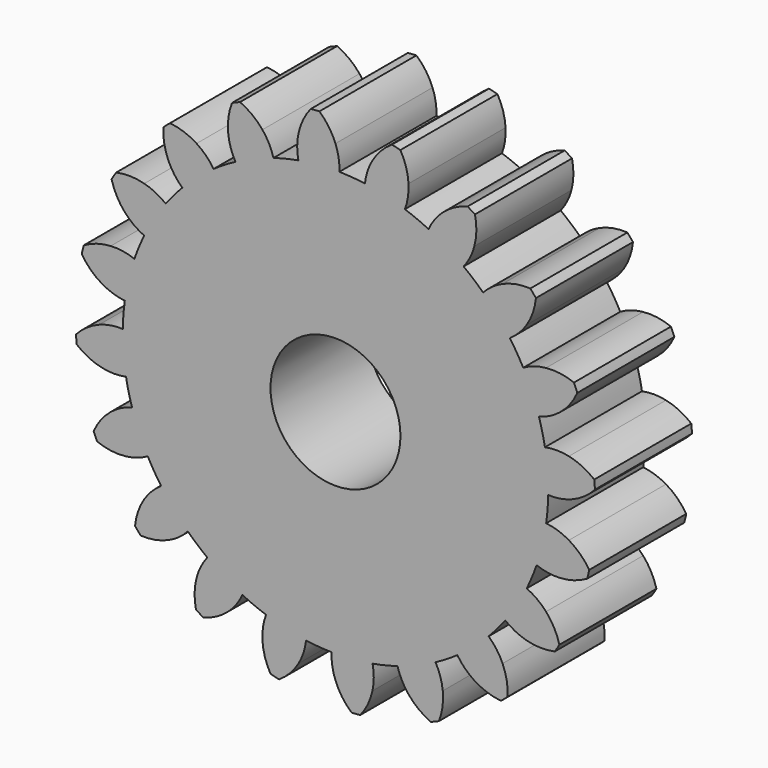
from build123d import *

# Parameters (mm, degrees)
F1_DEPTH = 2.8
F2_COUNT = 20
F2_ANGLE = 342
F3_R     = 1.5
F4_DEPTH = 2.8


with BuildPart() as f1:
    # F0 (on Front) → F1 (new body)
    with BuildSketch(Plane.XZ):
        with BuildLine():
            ThreePointArc((-0.856629721, 4.8346960112), (-0.38523416, 4.8948641086), (0.0897701035, 4.9091792928))
            ThreePointArc((0.0897701035, 4.9091792928), (0.0734017823, 5.1867797393), (0, 5.455))
            ThreePointArc((0, 5.455), (-0.1537545483, 5.7437546233), (-0.3707884455, 5.9885320345))
            ThreePointArc((-0.3707884455, 5.9885320345), (-0.4707851627, 5.9818926646), (-0.5705893808, 5.9728073599))
            ThreePointArc((-0.5705893808, 5.9728073599), (-0.7466596071, 5.6970919831), (-0.8533500068, 5.3878398979))
            ThreePointArc((-0.8533500068, 5.3878398979), (-0.8838891984, 5.1114393052), (-0.856629721, 4.8346960112))
        make_face()
        with BuildLine():
            ThreePointArc((-0.856629721, 4.8346960112), (-3.1545243754, -3.7625889976), (4.91, 0))
            ThreePointArc((4.91, 0), (3.5034890615, 3.4400093599), (0.0897701035, 4.9091792928))
            ThreePointArc((0.0897701035, 4.9091792928), (-0.38523416, 4.8948641086), (-0.856629721, 4.8346960112))
        make_face()
    extrude(amount=F1_DEPTH)

    # F2: F1 ×20 about axis
    f2_axis = Axis((0, 0, 0), (0, 1, 0))


with BuildPart() as f1_1:
    add(f1.part)
    for i in range(1, F2_COUNT):
        add(f1.part.rotate(f2_axis, i * F2_ANGLE / (F2_COUNT - 1)))

    # F3 (on face) → F4 (cut)
    with BuildSketch(Plane.XZ):
        Circle(F3_R)
    extrude(amount=F4_DEPTH, mode=Mode.SUBTRACT)


solid = f1_1.part
